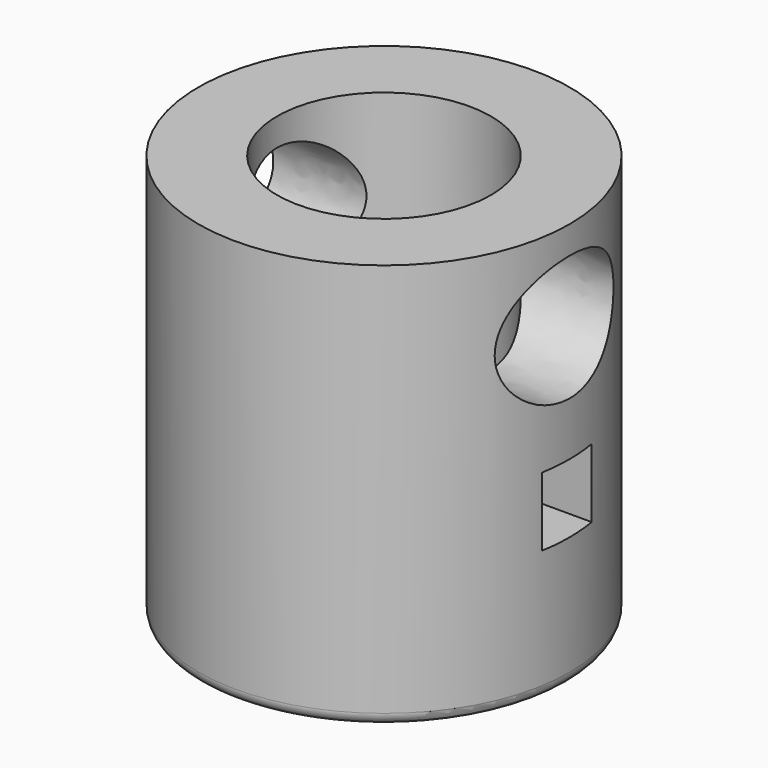
from build123d import *

# Parameters (mm, degrees)
F0_R     = 9.525
F1_DEPTH = 10.4394
F2_R     = 5.4864
F3_DEPTH = 19.2278
F4_W     = 3.175
F4_H     = 3.5306
F5_DEPTH = 12.7
F7_DEPTH = 12.7
F8_R     = 0.635


with BuildPart() as f1:
    # F0 (on Top) → F1 (new body, symmetric)
    with BuildSketch(Plane.XY):
        Circle(F0_R)
    extrude(amount=F1_DEPTH, both=True)

    # F2 (on face) → F3 (cut)
    with BuildSketch(Plane.XY.offset(10.4394)):
        Circle(F2_R)
    extrude(amount=-F3_DEPTH, mode=Mode.SUBTRACT)

    # F4 (on Right) → F5 (cut, symmetric)
    with BuildSketch(Plane.YZ):
        with Locations((0, -1.9431)):
            Rectangle(F4_W, F4_H)
    extrude(amount=F5_DEPTH, both=True, mode=Mode.SUBTRACT)

    # F6 (on Right) → F7 (cut, symmetric)
    with BuildSketch(Plane.YZ):
        with BuildLine():
            add(Edge.make_bspline(
                [(0, 9.017), (-6.5991135768, 9.017), (-3.2995567884, 4.1783), (0, -0.6604), (3.2995567884, 4.1783), (6.5991135768, 9.017), (0, 9.017)],
                knots=[4.7123889804, 4.7123889804, 4.7123889804, 6.8067840828, 6.8067840828, 8.9011791852, 8.9011791852, 10.9955742876, 10.9955742876, 10.9955742876], degree=2, weights=[1, 0.5, 1, 0.5, 1, 0.5, 1]))
        make_face()
    extrude(amount=F7_DEPTH, both=True, mode=Mode.SUBTRACT)

    # F8
    f8_edges = [f1.edges().sort_by_distance(p)[0] for p in [
        (-9.525, 0, -10.4394),
    ]]
    fillet(f8_edges, radius=F8_R)


solid = f1.part
